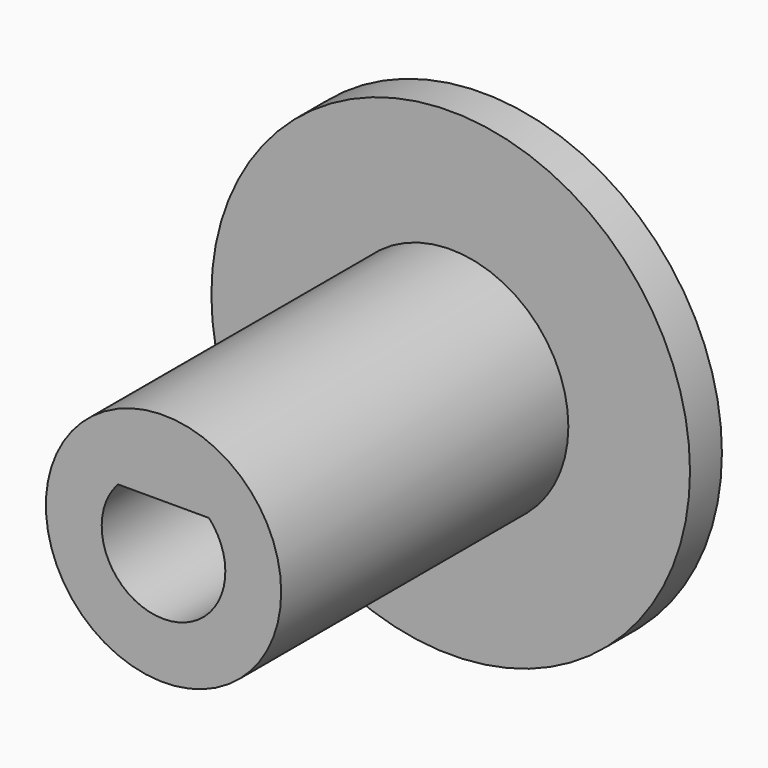
from build123d import *

# Parameters (mm, degrees)
F0_R     = 2.95
F1_DEPTH = 10
F0_R_2   = 6
F2_DEPTH = 1


with BuildPart() as f1:
    # F0 (on Front) → F1 (new body)
    with BuildSketch(Plane.XZ):
        Circle(F0_R)
        with BuildLine():
            ThreePointArc((1.140175, 1.05), (0, -1.55), (-1.140175, 1.05))
            Line((-1.140175, 1.05), (1.140175, 1.05))
        make_face(mode=Mode.SUBTRACT)
    extrude(amount=F1_DEPTH)

    # F0 (on Front) → F2 (join)
    with BuildSketch(Plane.XZ):
        Circle(F0_R_2)
        Circle(F0_R, mode=Mode.SUBTRACT)
    extrude(amount=F2_DEPTH)


solid = f1.part
